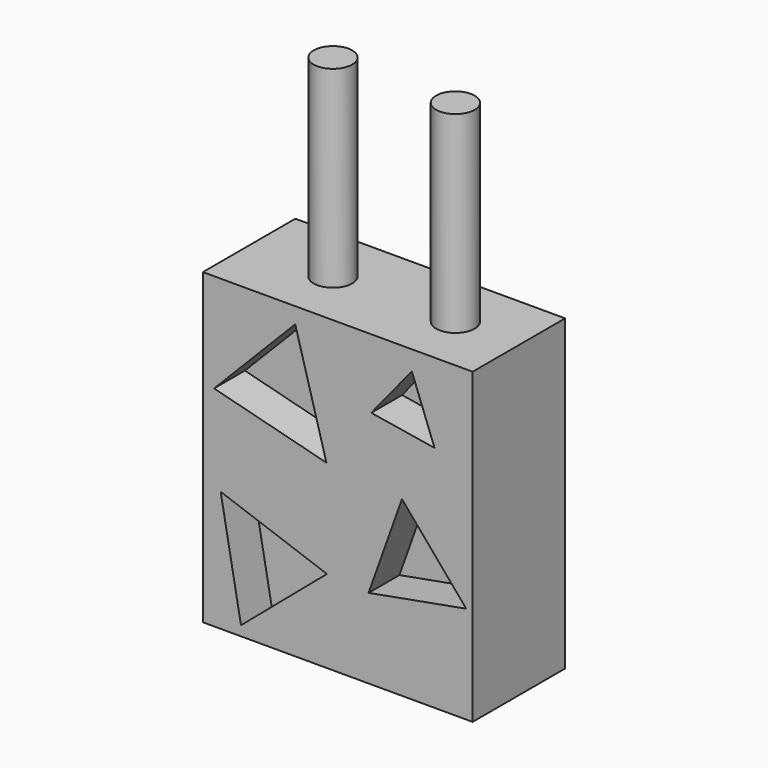
from build123d import *

# Parameters (mm, degrees)
F0_W     = 70
F0_H     = 30
F1_DEPTH = 80
F2_R     = 5
F3_DEPTH = 50
F5_DEPTH = 10


with BuildPart() as f1:
    # F0 (on Top) → F1 (new body)
    with BuildSketch(Plane.XY):
        Rectangle(F0_W, F0_H)
    extrude(amount=F1_DEPTH)

    # F2 (on face) → F3 (join)
    with BuildSketch(Plane.XY.offset(80)):
        with Locations((-13.248, 0)):
            Circle(F2_R)
        with Locations((18.53054, 0)):
            Circle(F2_R)
    extrude(amount=F3_DEPTH)

    # F4 (on face) → F5 (cut)
    with BuildSketch(Plane.XZ.offset(15)):
        Polygon((8.690138, 62.054458), (25.116485, 59.377786), (19.221377, 74.941756), align=None)
        Polygon((-2.943005, 46.873943), (-11.033713, 75.867229), (-32.097282, 54.363828), align=None)
        Polygon((-25.11046, 2.536608), (-2.81477, 21.49697), (-30.38277, 31.325422), align=None)
        Polygon((33.337645, 25.32119), (16.663238, 44.953783), (7.998117, 20.697027), align=None)
    extrude(amount=-F5_DEPTH, mode=Mode.SUBTRACT)


solid = f1.part
